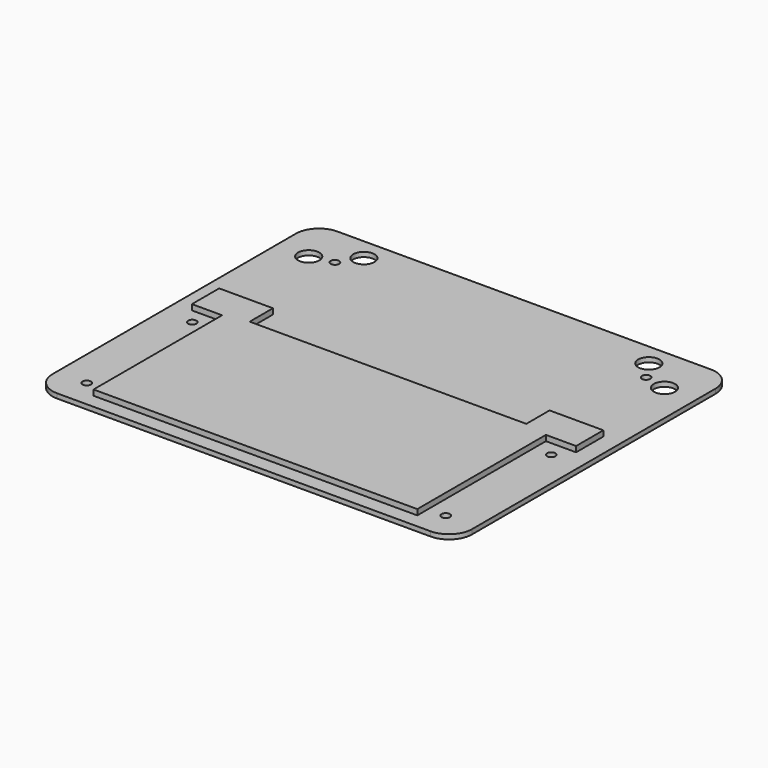
from build123d import *

# Parameters (mm, degrees)
F0_W     = 138.111218
F0_H     = 115.343272
F0_R     = 1.382409
F0_R_2   = 3.496557
F1_DEPTH = 1.524
F3_DEPTH = 1.8288
F4_R     = 7.62


with BuildPart() as f1:
    # F0 (on Top) → F1 (new body)
    with BuildSketch(Plane.XY):
        Rectangle(F0_W, F0_H)
        with Locations((-59.067786, -48.435853)):
            Circle(F0_R, mode=Mode.SUBTRACT)
        with Locations((-59.067786, -5.047345)):
            Circle(F0_R, mode=Mode.SUBTRACT)
        with Locations((59.067786, -48.435853)):
            Circle(F0_R, mode=Mode.SUBTRACT)
        with Locations((59.067786, -5.047345)):
            Circle(F0_R, mode=Mode.SUBTRACT)
        with Locations((-58.543, 42.207982)):
            Circle(F0_R_2, mode=Mode.SUBTRACT)
        with Locations((-51.227979, 43.833543)):
            Circle(F0_R, mode=Mode.SUBTRACT)
        with Locations((-46.893153, 50.335784)):
            Circle(F0_R_2, mode=Mode.SUBTRACT)
        with Locations((58.543, 42.207982)):
            Circle(F0_R_2, mode=Mode.SUBTRACT)
        with Locations((51.227979, 43.833543)):
            Circle(F0_R, mode=Mode.SUBTRACT)
        with Locations((46.893153, 50.335784)):
            Circle(F0_R_2, mode=Mode.SUBTRACT)
    extrude(amount=F1_DEPTH)

    # F2 (on face) → F3 (join)
    with BuildSketch(Plane.XY.offset(1.524)):
        Polygon((-53.286642, -52.906867), (0, -52.906867), (53.286642, -52.906867), (53.286642, 0), (63.22062, 0), (63.22062, 11.212443), (45.520075, 11.212443), (45.520075, 1.639701), (0, 1.639701), (-45.520075, 1.639701), (-45.520075, 11.212443), (-63.22062, 11.212443), (-63.22062, 0), (-53.286642, 0), align=None)
    extrude(amount=F3_DEPTH)

    # F4
    f4_edges = [f1.edges().sort_by_distance(p)[0] for p in [
        (-69.055609, 57.671636, 0.762),
        (69.055609, 57.671636, 0.762),
        (69.055609, -57.671636, 0.762),
        (-69.055609, -57.671636, 0.762),
    ]]
    fillet(f4_edges, radius=F4_R)


solid = f1.part
